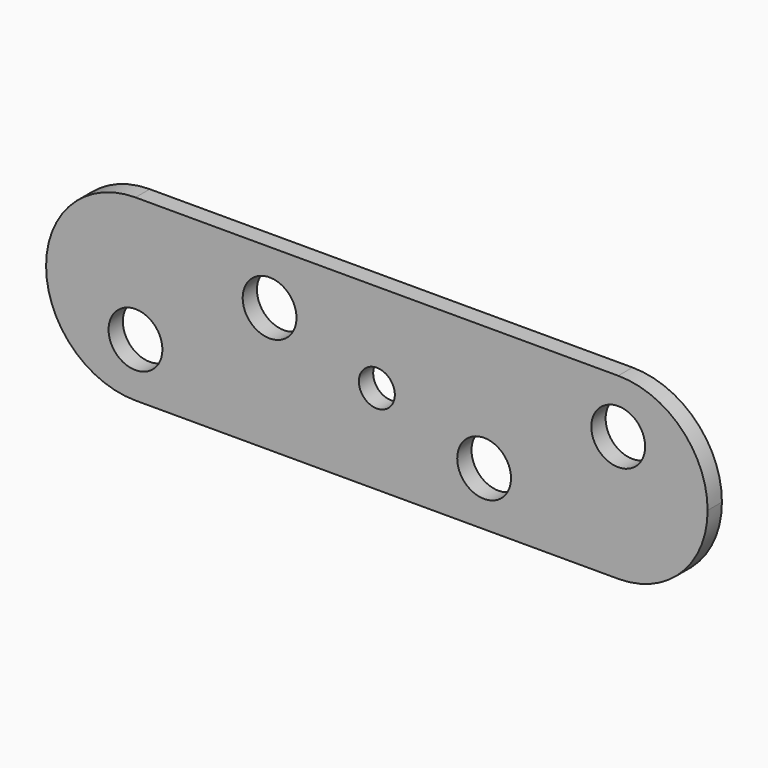
from build123d import *

# Parameters (mm, degrees)
F1_DEPTH = 2
F3_D     = 6.02
F5_D     = 4.02


with BuildPart() as f1:
    # F0 (on Front) → F1 (new body)
    with BuildSketch(Plane.XZ):
        with BuildLine():
            ThreePointArc((37, 0), (34.071068, 7.071068), (27, 10))
            Line((27, 10), (-27, 10))
            ThreePointArc((-27, 10), (-34.071068, 7.071068), (-37, 0))
            ThreePointArc((-37, 0), (-34.071068, -7.071068), (-27, -10))
            Line((-27, -10), (27, -10))
            ThreePointArc((27, -10), (34.071068, -7.071068), (37, 0))
        make_face()
    extrude(amount=F1_DEPTH)

    # F3 (through all)
    with Locations(Plane.XZ.offset(2)):
        with Locations((-12, 4), (-27, -4), (27, 4), (12, -4)):
            Hole(F3_D / 2)

    # F5 (through all)
    with Locations(Plane.XZ.offset(2)):
        with Locations((0, 0)):
            Hole(F5_D / 2)


solid = f1.part
